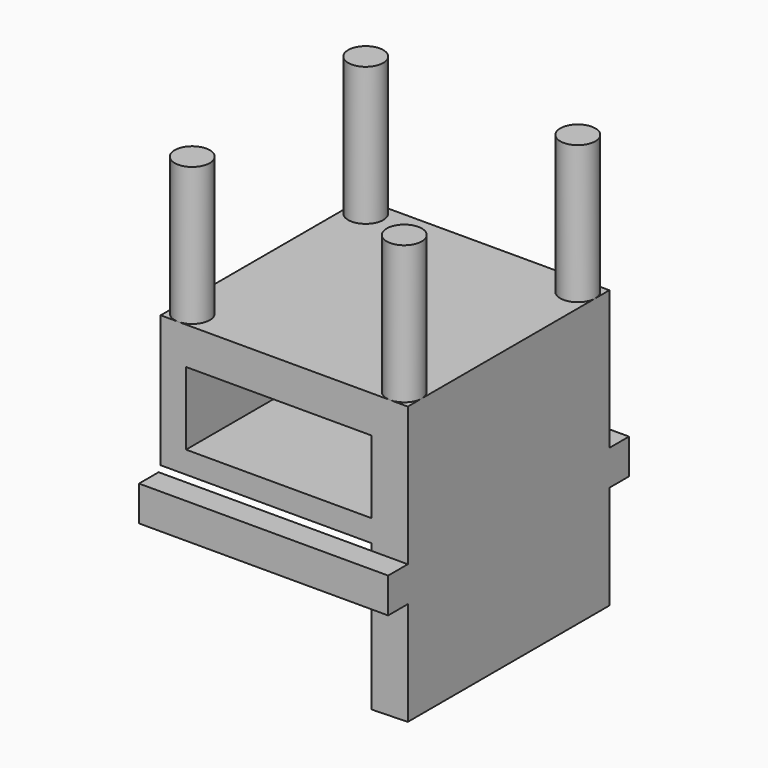
from build123d import *

# Parameters (mm, degrees)
F1_DEPTH  = 71.8
F2_R      = 5
F3_DEPTH  = 39.4
F4_W      = 9
F4_H      = 10
F5_DEPTH  = 7
F6_W      = 9
F6_H      = 10
F7_DEPTH  = 7
F5_FACE_W = 7
F5_FACE_H = 10
F8_DEPTH  = 62
F7_FACE_W = 7
F7_FACE_H = 10
F9_DEPTH  = 62


with BuildPart() as f1:
    # F0 (on Front) → F1 (new body)
    with BuildSketch(Plane.XZ):
        Polygon((43.408085, -3.087412), (43.408085, -44.812847), (53.779151, -44.57166), (53.779151, 34.537837), (-16.647598, 34.537837), (-16.647598, 23.925588), (-9.411974, 23.925588), (43.408085, 23.925588), (43.408085, 3.183464), align=None)
        Polygon((-16.647598, -3.087412), (43.408085, -3.087412), (43.408085, 3.183464), (-9.411974, 3.183464), (-9.411974, 23.925588), (-16.647598, 23.925588), align=None)
    extrude(amount=F1_DEPTH)

    # F2 (on face) → F3 (join)
    with BuildSketch(Plane.XY.offset(34.537837)):
        with BuildLine():
            ThreePointArc((-16.647598, -66.8), (-11.647598, -71.8), (-6.647598, -66.8))
            ThreePointArc((-6.647598, -66.8), (-11.647598, -61.8), (-16.647598, -66.8))
        make_face()
        with Locations((48.779151, -66.8)):
            Circle(F2_R)
        with Locations((48.779151, -5)):
            Circle(F2_R)
        with BuildLine():
            ThreePointArc((-16.647598, -5), (-11.647598, -10), (-6.647598, -5))
            ThreePointArc((-6.647598, -5), (-11.647598, 0), (-16.647598, -5))
        make_face()
    extrude(amount=F3_DEPTH)

    # F4 (on face) → F5 (join)
    with BuildSketch(Plane.XZ.offset(71.8)):
        with Locations((49.279151, -10.016912)):
            Rectangle(F4_W, F4_H)
    extrude(amount=F5_DEPTH)

    # F6 (on face) → F7 (join)
    with BuildSketch(Plane(origin=(0, 0, 0), x_dir=(-1, 0, 0), z_dir=(0, 1, 0))):
        with Locations((-49.279151, -10.016912)):
            Rectangle(F6_W, F6_H)
    extrude(amount=F7_DEPTH)

    # F5_face (on face) → F8 (join)
    with BuildSketch(Plane(origin=(44.779151, -75.3, -10.016912), x_dir=(0, -1, 0), z_dir=(-1, 0, 0))):
        Rectangle(F5_FACE_W, F5_FACE_H)
    extrude(amount=F8_DEPTH)

    # F7_face (on face) → F9 (join)
    with BuildSketch(Plane(origin=(44.779151, 3.5, -10.016912), x_dir=(0, -1, 0), z_dir=(-1, 0, 0))):
        Rectangle(F7_FACE_W, F7_FACE_H)
    extrude(amount=F9_DEPTH)


solid = f1.part
